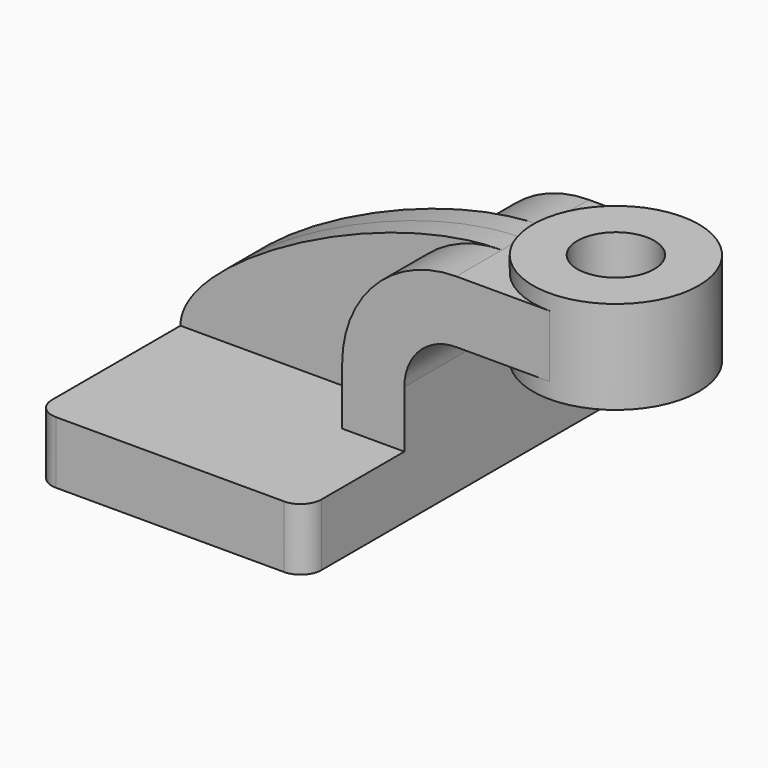
from build123d import *

# Parameters (mm, degrees)
F1_DEPTH = 63.5
F0_W     = 25.4
F0_H     = 19.05
F2_DEPTH = 25.4
F3_DEPTH = 7.9375
F5_R     = 6.35
F6_R     = 11.7795473759
F7_DEPTH = 28.575


with BuildPart() as f1:
    # F0 (on Front) → F1 (new body, symmetric)
    with BuildSketch(Plane.XZ):
        Polygon((-41.275, 9.525), (-41.275, -9.525), (41.275, -9.525), (41.275, 9.525), (22.225, 9.525), align=None)
    extrude(amount=F1_DEPTH, both=True)

    # F0 (on Front) → F2 (join, symmetric)
    with BuildSketch(Plane.XZ):
        with BuildLine():
            Line((22.225, 9.525), (41.275, 9.525))
            Line((41.275, 9.525), (41.275, 27.0002))
            ThreePointArc((41.275, 27.0002), (45.9246798487, 38.2255201513), (57.15, 42.8752))
            Line((57.15, 42.8752), (60.325, 42.8752))
            Line((60.325, 42.8752), (60.325, 61.9252))
            Line((60.325, 61.9252), (57.15, 61.9252))
            ThreePointArc((57.15, 61.9252), (32.4542956671, 51.6959043329), (22.225, 27.0002))
            Line((22.225, 27.0002), (22.225, 9.525))
        make_face()
        with Locations((73.025, 52.4002)):
            Rectangle(F0_W, F0_H)
    extrude(amount=F2_DEPTH, both=True)

    # F0 (on Front) → F3 (join, symmetric)
    with BuildSketch(Plane.XZ):
        with BuildLine():
            add(Edge.make_bspline(
                [(-41.275, 9.525), (-41.275, 29.0132258087), (19.6397230029, 61.9252), (57.15, 61.9252)],
                knots=[0, 0, 0, 0, 111.5045361635, 111.5045361635, 111.5045361635, 111.5045361635], degree=3))
            Line((-41.275, 9.525), (22.225, 9.525))
            Line((22.225, 9.525), (22.225, 27.0002))
            ThreePointArc((22.225, 27.0002), (32.4542956671, 51.6959043329), (57.15, 61.9252))
        make_face()
    extrude(amount=F3_DEPTH, both=True)

    # F0 (on Front) → F4 (revolve)
    with BuildSketch(Plane.XZ):
        Polygon((85.725, 66.675), (85.725, 61.9252), (85.725, 42.8752), (85.725, 38.1), (111.125, 38.1), (111.125, 66.675), align=None)
    revolve(axis=Axis((85.725, 0, 52.3875), (0, 0, 1)))

    # F5
    f5_edges = [f1.edges().sort_by_distance(p)[0] for p in [
        (41.275, -63.5, 0),
        (-41.275, -63.5, 0),
        (-41.275, 63.5, 0),
        (41.275, 63.5, 0),
    ]]
    fillet(f5_edges, radius=F5_R)

    # F6 (on face) → F7 (cut, through all)
    with BuildSketch(Plane.XY.offset(66.675)):
        with Locations((85.725, 0)):
            Circle(F6_R)
    extrude(amount=-F7_DEPTH, mode=Mode.SUBTRACT)


solid = f1.part
